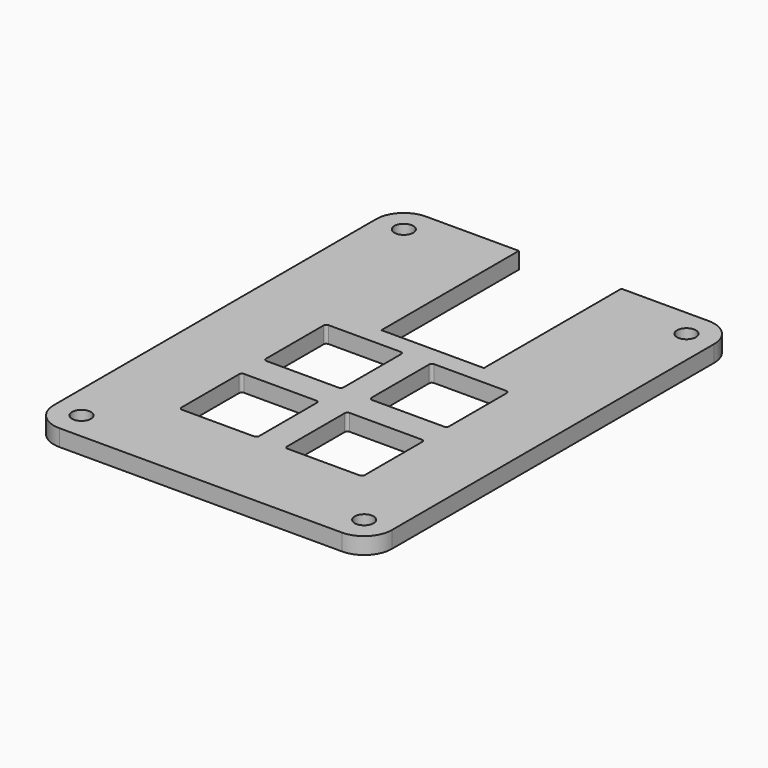
from build123d import *

# Parameters (mm, degrees)
SKETCH001_R  = 1.7
PAD_DEPTH    = 3
POCKET_DEPTH = 10


with BuildPart() as part:
    # Sketch001 → Pad (new body)
    with BuildSketch(Plane.XY):
        with BuildLine():
            Line((-11.965, 26.939), (-11.965, -45.761))
            ThreePointArc((-11.965, -45.761), (-10.500534, -49.296534), (-6.965, -50.761))
            Line((-6.965, -50.761), (44.035, -50.761))
            ThreePointArc((44.035, -50.761), (47.570534, -49.296534), (49.035, -45.761))
            Line((49.035, -45.761), (49.035, 26.939))
            ThreePointArc((49.035, 26.939), (47.570534, 30.474534), (44.035, 31.939))
            Line((44.035, 31.939), (28.285, 31.939))
            Line((28.285, 0.939), (28.285, 31.939))
            Line((9.785, 0.939), (28.285, 0.939))
            Line((9.785, 31.939), (9.785, 0.939))
            Line((9.785, 31.939), (-6.965, 31.939))
            ThreePointArc((-6.965, 31.939), (-10.500534, 30.474534), (-11.965, 26.939))
        make_face()
        with Locations((-6.965, -45.761)):
            Circle(SKETCH001_R, mode=Mode.SUBTRACT)
        with Locations((44.035, -45.761)):
            Circle(SKETCH001_R, mode=Mode.SUBTRACT)
        with Locations((44.035, 26.939)):
            Circle(SKETCH001_R, mode=Mode.SUBTRACT)
        with Locations((-6.965, 26.939)):
            Circle(SKETCH001_R, mode=Mode.SUBTRACT)
    extrude(amount=PAD_DEPTH)

    # Sketch → Pocket (cut)
    with BuildSketch(Plane.XY):
        with BuildLine():
            Line((3.025, -2.525), (16.025, -2.525))
            ThreePointArc((16.525, -3.025), (16.378553, -2.671447), (16.025, -2.525))
            Line((16.525, -3.025), (16.525, -16.025))
            ThreePointArc((16.025, -16.525), (16.378553, -16.378553), (16.525, -16.025))
            Line((3.025, -16.525), (16.025, -16.525))
            ThreePointArc((2.525, -16.025), (2.671447, -16.378553), (3.025, -16.525))
            Line((2.525, -3.025), (2.525, -16.025))
            ThreePointArc((3.025, -2.525), (2.671447, -2.671447), (2.525, -3.025))
        make_face()
        with BuildLine():
            Line((22.075, -2.525), (35.075, -2.525))
            ThreePointArc((35.575, -3.025), (35.428553, -2.671447), (35.075, -2.525))
            Line((35.575, -3.025), (35.575, -16.025))
            ThreePointArc((35.075, -16.525), (35.428553, -16.378553), (35.575, -16.025))
            Line((22.075, -16.525), (35.075, -16.525))
            ThreePointArc((21.575, -16.025), (21.721447, -16.378553), (22.075, -16.525))
            Line((21.575, -3.025), (21.575, -16.025))
            ThreePointArc((22.075, -2.525), (21.721447, -2.671447), (21.575, -3.025))
        make_face()
        with BuildLine():
            Line((3.025, -21.575), (16.025, -21.575))
            ThreePointArc((16.525, -22.075), (16.378553, -21.721447), (16.025, -21.575))
            Line((16.525, -22.075), (16.525, -35.075))
            ThreePointArc((16.025, -35.575), (16.378553, -35.428553), (16.525, -35.075))
            Line((3.025, -35.575), (16.025, -35.575))
            ThreePointArc((2.525, -35.075), (2.671447, -35.428553), (3.025, -35.575))
            Line((2.525, -22.075), (2.525, -35.075))
            ThreePointArc((3.025, -21.575), (2.671447, -21.721447), (2.525, -22.075))
        make_face()
        with BuildLine():
            Line((22.075, -21.575), (35.075, -21.575))
            ThreePointArc((35.575, -22.075), (35.428553, -21.721447), (35.075, -21.575))
            Line((35.575, -22.075), (35.575, -35.075))
            ThreePointArc((35.075, -35.575), (35.428553, -35.428553), (35.575, -35.075))
            Line((22.075, -35.575), (35.075, -35.575))
            ThreePointArc((21.575, -35.075), (21.721447, -35.428553), (22.075, -35.575))
            Line((21.575, -22.075), (21.575, -35.075))
            ThreePointArc((22.075, -21.575), (21.721447, -21.721447), (21.575, -22.075))
        make_face()
    extrude(amount=POCKET_DEPTH, mode=Mode.SUBTRACT)


solid = part.part
